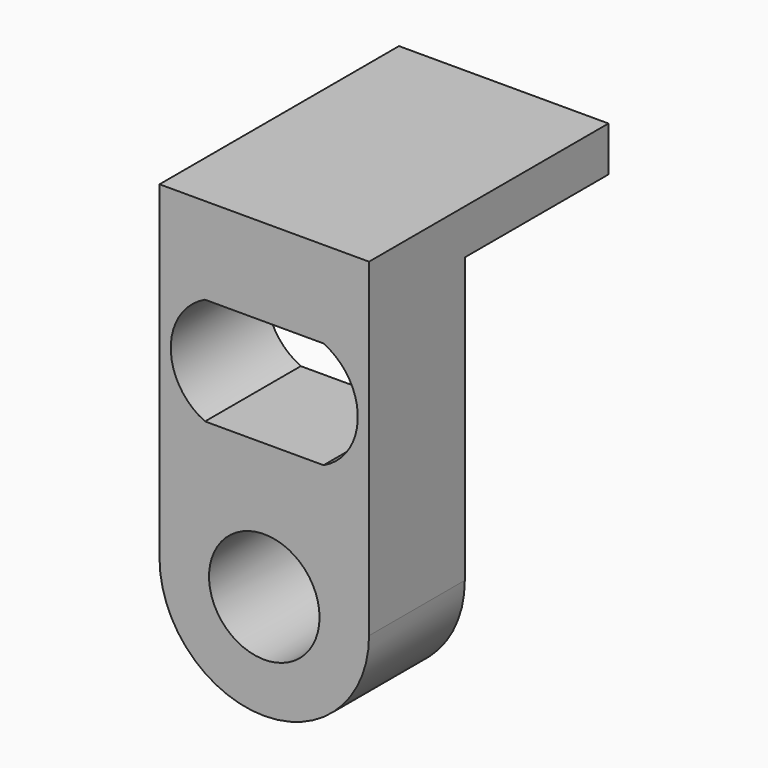
from build123d import *

# Parameters (mm, degrees)
F1_DEPTH = 19.05
F3_DEPTH = 12.7
F4_R     = 5.86105
F5_DEPTH = 25.4
F7_DEPTH = 25.4


with BuildPart() as f1:
    # F0 (on Front) → F1 (new body)
    with BuildSketch(Plane.XZ):
        Polygon((22.225, 0), (0, 0), (0, -4.7625), (8.6995, -4.7625), (8.6995, -6.5405), (6.096, -6.5405), (6.096, -9.2075), (16.129, -9.2075), (16.129, -6.5405), (13.5255, -6.5405), (13.5255, -4.7625), (22.225, -4.7625), align=None)
    extrude(amount=F1_DEPTH)

    # F2 (on face) → F3 (join)
    with BuildSketch(Plane.XZ.offset(19.05)):
        with BuildLine():
            Line((8.6995, -4.7625), (0, -4.7625))
            Line((0, -4.7625), (0, -34.925))
            ThreePointArc((0, -34.925), (11.1125, -46.0375), (22.225, -34.925))
            Line((22.225, -34.925), (22.225, -4.7625))
            Line((22.225, -4.7625), (13.5255, -4.7625))
            Line((13.5255, -4.7625), (13.5255, -6.5405))
            Line((13.5255, -6.5405), (16.129, -6.5405))
            Line((16.129, -6.5405), (16.129, -9.2075))
            Line((16.129, -9.2075), (6.096, -9.2075))
            Line((6.096, -9.2075), (6.096, -6.5405))
            Line((6.096, -6.5405), (8.6995, -6.5405))
            Line((8.6995, -6.5405), (8.6995, -4.7625))
        make_face()
        Polygon((22.225, 0), (0, 0), (0, -4.7625), (8.6995, -4.7625), (8.6995, -6.5405), (6.096, -6.5405), (6.096, -9.2075), (16.129, -9.2075), (16.129, -6.5405), (13.5255, -6.5405), (13.5255, -4.7625), (22.225, -4.7625), align=None)
    extrude(amount=F3_DEPTH)

    # F4 (on face) → F5 (cut)
    with BuildSketch(Plane.XZ.offset(31.75)):
        with Locations((11.1125, -34.925)):
            Circle(F4_R)
    extrude(amount=-F5_DEPTH, mode=Mode.SUBTRACT)

    # F6 (on face) → F7 (cut)
    with BuildSketch(Plane.XZ.offset(31.75)):
        with BuildLine():
            Line((17.399, -9.2075), (4.826, -9.2075))
            ThreePointArc((4.826, -9.2075), (1.190625, -14.892203), (4.826, -20.576906))
            Line((4.826, -20.576906), (17.399, -20.576906))
            ThreePointArc((17.399, -20.576906), (21.034375, -14.892203), (17.399, -9.2075))
        make_face()
    extrude(amount=-F7_DEPTH, mode=Mode.SUBTRACT)


solid = f1.part
